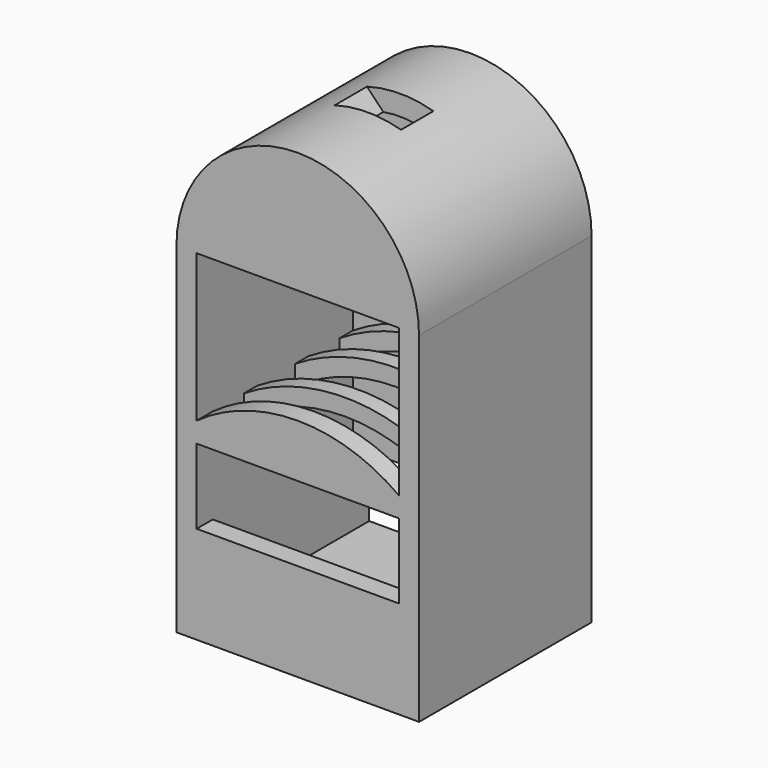
from build123d import *

# Parameters (mm, degrees)
F0_W      = 914.4
F0_H      = 812.8
F0_W_2    = 762
F0_H_2    = 609.6
F1_DEPTH  = 63.5
F2_W      = 914.4
F2_H      = 812.8
F2_W_2    = 762
F2_H_2    = 660.4
F3_DEPTH  = 1219.2
F5_DEPTH  = 812.8
F5_FACE_W = 762
F5_FACE_H = 76.2
F7_W      = 762
F7_H      = 282.4884019335
F9_DEPTH  = 76.2
F10_W     = 63.5
F10_H     = 76.2
F12_W     = 762
F12_H     = 279.4
F13_DEPTH = 88.9
F14_START = -330.2
F14_DEPTH = 152.4
F15_R     = 101.6
F16_DEPTH = 76.2
F17_DEPTH = 76.2


with BuildPart() as f1:
    # F0 (on Top) → F1 (new body)
    with BuildSketch(Plane.XY):
        Rectangle(F0_W, F0_H)
        Rectangle(F0_W_2, F0_H_2, mode=Mode.SUBTRACT)
        Rectangle(F0_W_2, F0_H_2)
    extrude(amount=F1_DEPTH)

    # F2 (on face) → F3 (join)
    with BuildSketch(Plane.XY.offset(63.5)):
        Rectangle(F2_W, F2_H)
        Rectangle(F2_W_2, F2_H_2, mode=Mode.SUBTRACT)
    extrude(amount=F3_DEPTH)

    # F4 (on face) → F5 (join, through all)
    with BuildSketch(Plane.XZ.offset(406.4)):
        with BuildLine():
            Line((381, 1282.7), (457.2, 1282.7))
            ThreePointArc((457.2, 1282.7), (364.8558540126, 1558.2214071405), (125.1263088683, 1722.4445245014))
            Line((125.1263088683, 1722.4445245014), (63.5, 1658.3710662268))
            ThreePointArc((63.5, 1658.3710662268), (290.9935566297, 1528.6344424842), (381, 1282.7))
        make_face()
        with BuildLine():
            ThreePointArc((-125.1263088683, 1722.4445245014), (-364.8558540126, 1558.2214071405), (-457.2, 1282.7))
            Line((-457.2, 1282.7), (-381, 1282.7))
            ThreePointArc((-381, 1282.7), (-290.9935566297, 1528.6344424842), (-63.5, 1658.3710662268))
            Line((-63.5, 1658.3710662268), (-125.1263088683, 1722.4445245014))
        make_face()
        with BuildLine():
            Line((63.5, 1658.3710662268), (125.1263088683, 1722.4445245014))
            ThreePointArc((125.1263088683, 1722.4445245014), (0, 1739.9), (-125.1263088683, 1722.4445245014))
            Line((-125.1263088683, 1722.4445245014), (-63.5, 1658.3710662268))
            ThreePointArc((-63.5, 1658.3710662268), (0, 1663.7), (63.5, 1658.3710662268))
        make_face()
    extrude(amount=-F5_DEPTH)

    # F5_face (on face) → F6 (join, up to the next surface of F1)
    with BuildSketch(Plane(origin=(0, 368.3, 1282.7), x_dir=(1, 0, 0), z_dir=(0, 0, 1))):
        Rectangle(F5_FACE_W, F5_FACE_H)
    extrude(until=Until.NEXT)

    # F5_face (on face) → F8 (join, up to the next surface of F1)
    with BuildSketch(Plane(origin=(0, 368.3, 1282.7), x_dir=(1, 0, 0), z_dir=(0, 0, 1))):
        with Locations((0, -736.6)):
            Rectangle(F5_FACE_W, F5_FACE_H)
    extrude(until=Until.NEXT)

    # F7 (on face) → F9 (cut, through all)
    with BuildSketch(Plane.XZ.offset(406.4)):
        with BuildLine():
            Line((381, 1282.7), (-381, 1282.7))
            Line((-381, 1282.7), (-381, 726.9884019335))
            ThreePointArc((-381, 726.9884019335), (0, 850.9), (381, 726.9884019335))
            Line((381, 726.9884019335), (381, 1282.7))
        make_face()
        with BuildLine():
            ThreePointArc((381, 650.7884019335), (0, 774.7), (-381, 650.7884019335))
            Line((-381, 650.7884019335), (381, 650.7884019335))
        make_face()
        with Locations((0, 509.5442009667)):
            Rectangle(F7_W, F7_H)
    extrude(amount=-F9_DEPTH, mode=Mode.SUBTRACT)

    # F11: sweep along a path in F7
    with BuildLine(Plane.XZ.offset(406.4)) as f11_path:
        ThreePointArc((381, 650.7884019335), (0, 774.7), (-381, 650.7884019335))
    # F10 (on face) → F11 (sweep)
    with BuildSketch(Plane.YZ.offset(-381)):
        with Locations((-152.4, 688.8884019335)):
            Rectangle(F10_W, F10_H)
        with Locations((88.9, 688.8884019335)):
            Rectangle(F10_W, F10_H)
        with Locations((298.45, 688.8884019335)):
            Rectangle(F10_W, F10_H)
    sweep(path=f11_path.line)

    # F12 (on face) → F13 (cut)
    with BuildSketch(Plane(origin=(0, 406.4, 0), x_dir=(-1, 0, 0), z_dir=(0, 1, 0))):
        with Locations((0, 203.2)):
            Rectangle(F12_W, F12_H)
    extrude(amount=-F13_DEPTH, mode=Mode.SUBTRACT)

    # F4 (on face) → F14 (cut)
    with BuildSketch(Plane.XZ.offset(406.4).offset(F14_START)):
        with BuildLine():
            Line((63.5, 1658.3710662268), (125.1263088683, 1722.4445245014))
            ThreePointArc((125.1263088683, 1722.4445245014), (0, 1739.9), (-125.1263088683, 1722.4445245014))
            Line((-125.1263088683, 1722.4445245014), (-63.5, 1658.3710662268))
            ThreePointArc((-63.5, 1658.3710662268), (0, 1663.7), (63.5, 1658.3710662268))
        make_face()
    extrude(amount=-F14_DEPTH, mode=Mode.SUBTRACT)

    # F15 (on face) → F16 (cut, through all)
    with BuildSketch(Plane(origin=(-457.2, 0, 0), x_dir=(0, -1, 0), z_dir=(-1, 0, 0))):
        with Locations((0, 509.5442009667)):
            Circle(F15_R)
    extrude(amount=-F16_DEPTH, mode=Mode.SUBTRACT)

    # F7 (on face) → F17 (join, through all)
    with BuildSketch(Plane.XZ.offset(406.4)):
        with BuildLine():
            ThreePointArc((381, 650.7884019335), (0, 774.7), (-381, 650.7884019335))
            Line((-381, 650.7884019335), (381, 650.7884019335))
        make_face()
    extrude(amount=-F17_DEPTH)


solid = f1.part
